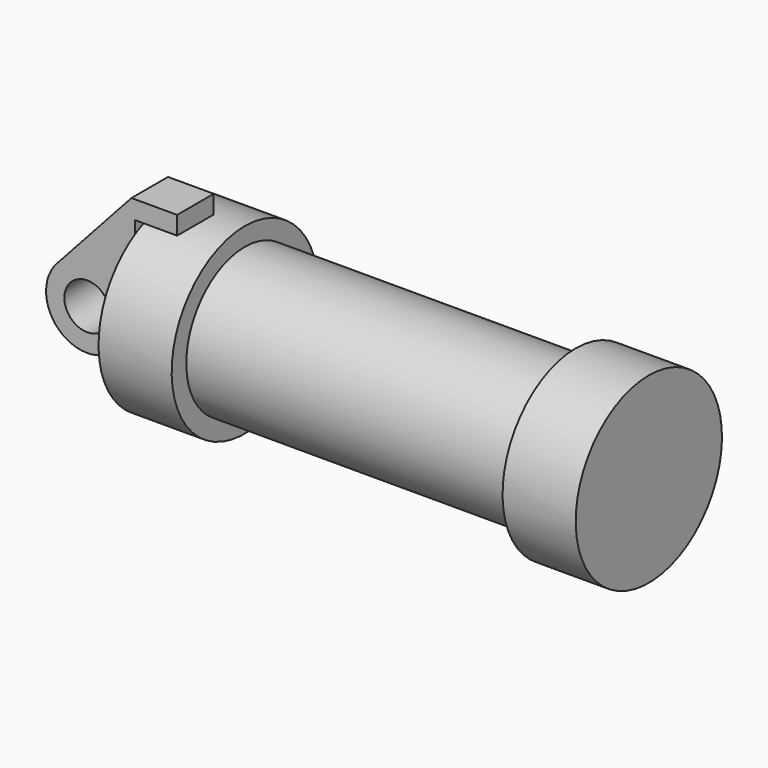
from build123d import *

# Parameters (mm, degrees)
F0_W     = 5.842
F0_H     = 12.7
F0_R     = 3.175
F2_DEPTH = 6.35


with BuildPart() as f1:
    # F0 (on Front) → F1 (revolve)
    with BuildSketch(Plane.XZ):
        Polygon((5.842, 12.7), (5.842, 0), (66.294, 0), (66.294, 12.7), (56.134, 12.7), (56.134, 10.16), (10.16, 10.16), (10.16, 12.7), align=None)
        with Locations((2.921, 6.35)):
            Rectangle(F0_W, F0_H)
    revolve(axis=Axis((33.147, 0, 0), (-1, 0, 0)))


with BuildPart() as f2:
    # F0 (on Front) → F2 (new body)
    with BuildSketch(Plane.XZ):
        with BuildLine():
            Line((-0.9398, 0), (0, 0))
            Line((0, 0), (0, 12.7))
            Line((0, 12.7), (5.842, 12.7))
            Line((5.842, 12.7), (5.842, 15.24))
            Line((5.842, 15.24), (-0.508, 15.24))
            Line((-0.508, 15.24), (-10.88063, 3.847543))
            ThreePointArc((-10.88063, 3.847543), (-4.591961, 5.329721), (-0.9398, 0))
        make_face()
        with BuildLine():
            ThreePointArc((-8.182663, -5.506983), (-3.195791, -4.549339), (-0.9398, 0))
            ThreePointArc((-0.9398, 0), (-4.591961, 5.329721), (-10.88063, 3.847543))
            ThreePointArc((-10.88063, 3.847543), (-12.145978, -1.583727), (-8.182663, -5.506983))
        make_face()
        with Locations((-6.6548, 0)):
            Circle(F0_R, mode=Mode.SUBTRACT)
    extrude(amount=F2_DEPTH)


solid = Compound([f1.part, f2.part])
